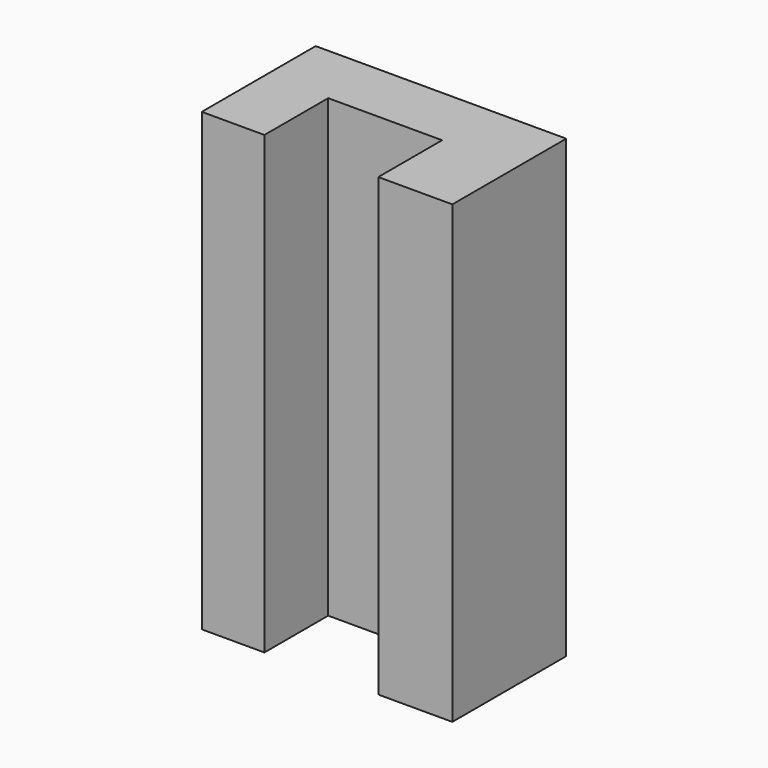
from build123d import *

# Parameters (mm, degrees)
PAD_DEPTH = 80


with BuildPart() as part:
    # Sketch → Pad (new body)
    with BuildSketch(Plane.XY):
        Polygon((0, 0), (11, 0), (11, 14), (31, 14), (31, 0), (44, 0), (44, 25), (0, 25), align=None)
    extrude(amount=PAD_DEPTH)


solid = part.part
